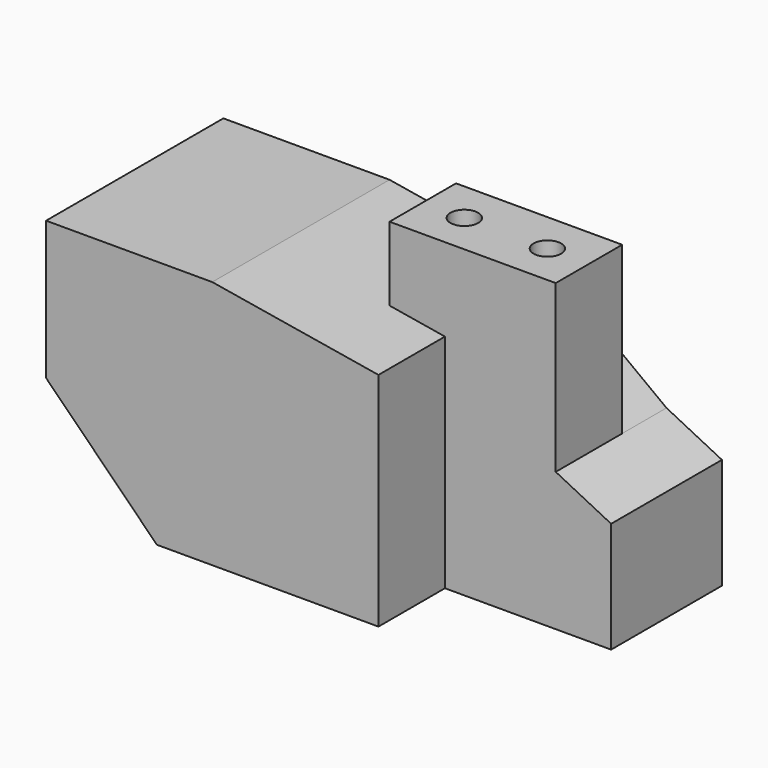
from build123d import *

# Parameters (mm, degrees)
F1_DEPTH      = 25.4
F3_DEPTH      = 6.35
F3_DEPTH_BACK = 12.7
F4_DEPTH      = 6.35
F4_DEPTH_BACK = 25.4
F7_DEPTH      = 12.7
F8_R          = 3.175
F9_DEPTH      = 69.851


with BuildPart() as f1:
    # F0 (on Front) → F1 (new body, symmetric)
    with BuildSketch(Plane.XZ):
        Polygon((25.4, 0), (76.2, 0), (76.2, 50.8), (38.1, 57.15), (0, 57.15), (0, 25.4), align=None)
    extrude(amount=F1_DEPTH, both=True)


with BuildPart() as f3:
    # F2 (on Front) → F3 (new body, two sides)
    with BuildSketch(Plane.XZ) as f3_sk:
        Polygon((76.2, 50.8), (76.2, 31.75), (101.6, 31.75), (101.6, 69.85), (63.5, 69.85), (63.5, 52.9166666667), align=None)
    extrude(amount=F3_DEPTH)
    extrude(f3_sk.sketch, amount=-F3_DEPTH_BACK)


with BuildPart() as f4:
    # F2 (on Front) → F4 (new body, two sides)
    with BuildSketch(Plane.XZ) as f4_sk:
        Polygon((76.2, 31.75), (76.2, 0), (114.3, 0), (114.3, 25.4), (101.6, 31.75), align=None)
    extrude(amount=F4_DEPTH)
    extrude(f4_sk.sketch, amount=-F4_DEPTH_BACK)


with BuildPart() as f3_1:
    add(f3.part)

    # F5: union F4, F1
    add(f4.part)
    add(f1.part)

    # F6 (on face) → F7 (join, through all)
    with BuildSketch(Plane(origin=(0, 25.4, 0), x_dir=(-1, 0, 0), z_dir=(0, 1, 0))):
        Polygon((-76.2, 31.75), (-76.2, 50.8), (-101.6, 31.75), align=None)
    extrude(amount=-F7_DEPTH)

    # F8 (on face) → F9 (cut, through all)
    with BuildSketch(Plane.XY.offset(69.85)):
        with Locations((92.075, 3.175)):
            Circle(F8_R)
        with Locations((73.025, 3.175)):
            Circle(F8_R)
    extrude(amount=-F9_DEPTH, mode=Mode.SUBTRACT)


solid = f3_1.part
